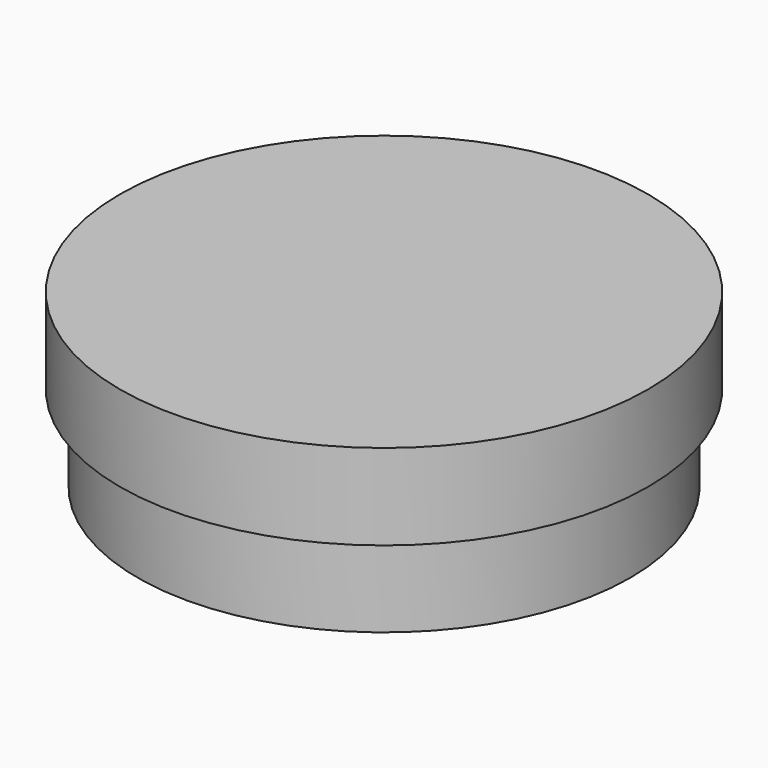
from build123d import *

# Parameters (mm, degrees)
F0_R     = 39.1033
F1_DEPTH = 25.4
F2_R     = 39.1033
F2_R_2   = 36.4871
F3_DEPTH = 12.7


with BuildPart() as f1:
    # F0 (on Top) → F1 (new body)
    with BuildSketch(Plane.XY):
        Circle(F0_R)
    extrude(amount=F1_DEPTH)

    # F2 (on Top) → F3 (cut)
    with BuildSketch(Plane.XY):
        Circle(F2_R)
        Circle(F2_R_2, mode=Mode.SUBTRACT)
    extrude(amount=F3_DEPTH, mode=Mode.SUBTRACT)


solid = f1.part
